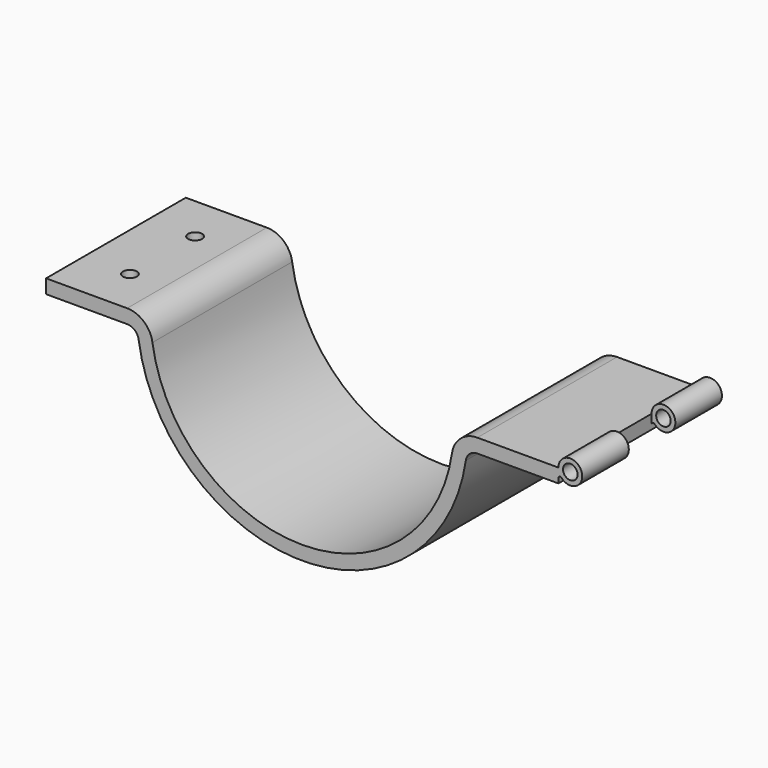
from build123d import *

# Parameters (mm, degrees)
F1_DEPTH      = 37.5
F3_R          = 3.125
F4_DEPTH      = 37.5
F4_DEPTH_BACK = 37.5
F5_W          = 12.7266719937
F5_H          = 25
F6_DEPTH      = 71.001
F6_DEPTH_BACK = 5.126
F2_R          = 3
F7_DEPTH      = 71.001


with BuildPart() as f1:
    # F0 (on Front) → F1 (new body, symmetric)
    with BuildSketch(Plane.XZ):
        with BuildLine():
            ThreePointArc((64.3155620097, -9.4078947368), (0, -65), (-64.3155620097, -9.4078947368))
            ThreePointArc((-64.3155620097, -9.4078947368), (-68.0064440401, -2.6779462302), (-75.1997340421, 0))
            Line((-75.1997340421, 0), (-110, 0))
            Line((-110, 0), (-110, -6))
            Line((-110, -6), (-75.1997340421, -6))
            ThreePointArc((-75.1997340421, -6), (-71.9300567685, -7.2172482865), (-70.2523831183, -10.2763157895))
            ThreePointArc((-70.2523831183, -10.2763157895), (0, -71), (70.2523831183, -10.2763157895))
            ThreePointArc((70.2523831183, -10.2763157895), (71.9300567685, -7.2172482865), (75.1997340421, -6))
            Line((75.1997340421, -6), (110, -6))
            Line((110, -6), (110, 0))
            Line((110, 0), (75.1997340421, 0))
            ThreePointArc((75.1997340421, 0), (68.0064440401, -2.6779462302), (64.3155620097, -9.4078947368))
        make_face()
    extrude(amount=F1_DEPTH, both=True)

    # F3 (on Front) → F4 (join, two sides)
    with BuildSketch(Plane.XZ) as f4_sk:
        with BuildLine():
            ThreePointArc((110, -3.971), (110.4913325801, -3.253734436), (111.3376547749, -3.4527729648))
            ThreePointArc((111.3376547749, -3.4527729648), (119.9038999403, 1.851415772), (110, 0))
            Line((110, 0), (110, -3.971))
        make_face()
        with Locations((115.125, 0)):
            Circle(F3_R, mode=Mode.SUBTRACT)
    extrude(amount=F4_DEPTH)
    extrude(f4_sk.sketch, amount=-F4_DEPTH_BACK)

    # F5 (on Top) → F6 (cut, two sides)
    with BuildSketch(Plane.XY) as f6_sk:
        with Locations((116.3633359969, 0)):
            Rectangle(F5_W, F5_H)
    extrude(amount=-F6_DEPTH, mode=Mode.SUBTRACT)
    extrude(f6_sk.sketch, amount=F6_DEPTH_BACK, mode=Mode.SUBTRACT)

    # F2 (on face) → F7 (cut, through all)
    with BuildSketch(Plane.XY):
        with Locations((-90, 17.5)):
            Circle(F2_R)
        with Locations((-90, -17.5)):
            Circle(F2_R)
    extrude(amount=-F7_DEPTH, mode=Mode.SUBTRACT)


solid = f1.part
